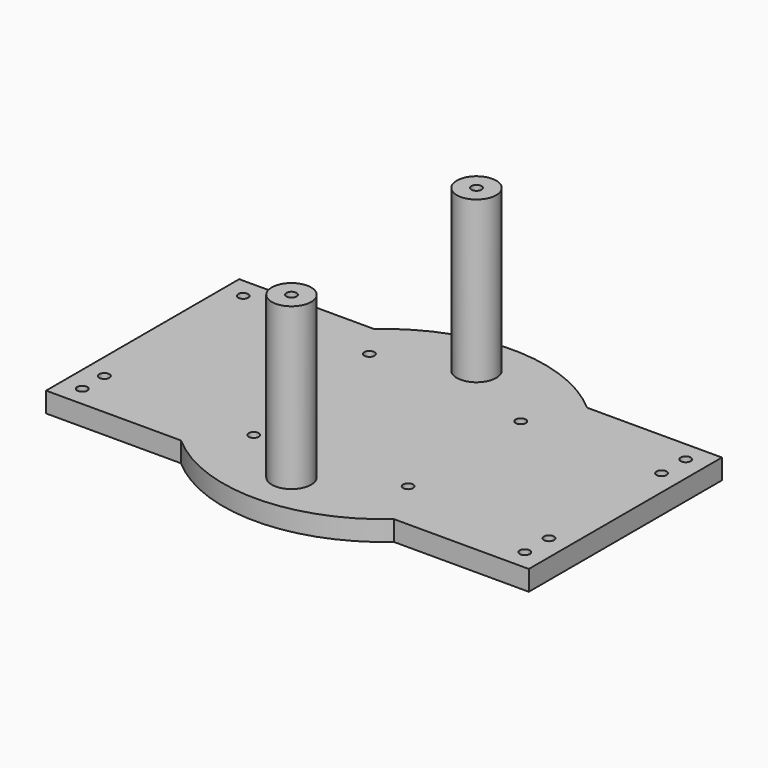
from build123d import *

# Parameters (mm, degrees)
F0_R      = 50.8
F1_DEPTH  = 6.35
F2_R      = 6.223
F3_DEPTH  = 50.8
F4_W      = 152.4
F4_H      = 76.2
F5_DEPTH  = 6.35
F6_R      = 1.5875
F7_DEPTH  = 6.35
F8_R      = 1.5875
F9_DEPTH  = 6.35
F10_R     = 1.5875
F11_DEPTH = 25.4


with BuildPart() as f1:
    # F0 (on Top) → F1 (new body)
    with BuildSketch(Plane.XY):
        Circle(F0_R)
    extrude(amount=F1_DEPTH)

    # F2 (on face) → F3 (join)
    with BuildSketch(Plane.XY.offset(6.35)):
        with Locations((0, -36.5125)):
            Circle(F2_R)
        with Locations((0, 36.5125)):
            Circle(F2_R)
    extrude(amount=F3_DEPTH)

    # F4 (on Top) → F5 (join)
    with BuildSketch(Plane.XY):
        Rectangle(F4_W, F4_H)
    extrude(amount=F5_DEPTH)

    # F6 (on face) → F7 (cut, through all)
    with BuildSketch(Plane.XY.offset(6.35)):
        with Locations((-53.975, 26.9875)):
            Circle(F6_R)
        with Locations((-69.85, -23.01875)):
            Circle(F6_R)
        with Locations((-26.19375, 26.9875)):
            Circle(F6_R)
        with Locations((-21.43125, -24.60625)):
            Circle(F6_R)
        with Locations((25.4, 22.225)):
            Circle(F6_R)
        with Locations((69.85, 22.225)):
            Circle(F6_R)
        with Locations((25.4, -22.225)):
            Circle(F6_R)
        with Locations((69.85, -22.225)):
            Circle(F6_R)
    extrude(amount=-F7_DEPTH, mode=Mode.SUBTRACT)

    # F8 (on face) → F9 (cut)
    with BuildSketch(Plane.XY.offset(57.15)):
        with Locations((0, 36.5125)):
            Circle(F8_R)
        with Locations((0, -36.5125)):
            Circle(F8_R)
    extrude(amount=-F9_DEPTH, mode=Mode.SUBTRACT)

    # F10 (on face) → F11 (cut)
    with BuildSketch(Plane.XY.offset(6.35)):
        with Locations((-69.85, 31.75)):
            Circle(F10_R)
        with Locations((-69.85, -31.75)):
            Circle(F10_R)
        with Locations((69.85, -31.75)):
            Circle(F10_R)
        with Locations((69.85, 31.75)):
            Circle(F10_R)
    extrude(amount=-F11_DEPTH, mode=Mode.SUBTRACT)


solid = f1.part
